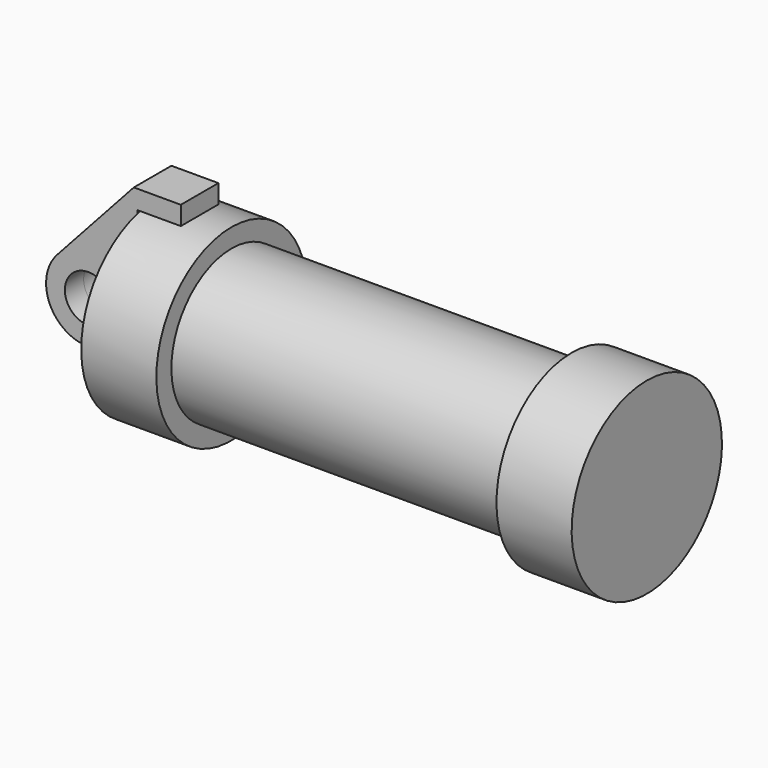
from build123d import *

# Parameters (mm, degrees)
F0_W          = 5.842
F0_H          = 12.7
F0_R          = 3.175
F2_DEPTH      = 3.175
F2_DEPTH_BACK = 3.175


with BuildPart() as f1:
    # F0 (on Front) → F1 (revolve)
    with BuildSketch(Plane.XZ):
        Polygon((5.842, 12.7), (5.842, 0), (66.294, 0), (66.294, 12.7), (56.134, 12.7), (56.134, 10.16), (10.16, 10.16), (10.16, 12.7), align=None)
        with Locations((2.921, 6.35)):
            Rectangle(F0_W, F0_H)
    revolve(axis=Axis((33.147, 0, 0), (-1, 0, 0)))


with BuildPart() as f2:
    # F0 (on Front) → F2 (new body, two sides)
    with BuildSketch(Plane.XZ) as f2_sk:
        with BuildLine():
            Line((-0.9398, 0), (0, 0))
            Line((0, 0), (0, 12.7))
            Line((0, 12.7), (5.842, 12.7))
            Line((5.842, 12.7), (5.842, 15.24))
            Line((5.842, 15.24), (-0.508, 15.24))
            Line((-0.508, 15.24), (-10.88063, 3.847543))
            ThreePointArc((-10.88063, 3.847543), (-4.591961, 5.329721), (-0.9398, 0))
        make_face()
        with BuildLine():
            ThreePointArc((-8.182663, -5.506983), (-3.195791, -4.549339), (-0.9398, 0))
            ThreePointArc((-0.9398, 0), (-4.591961, 5.329721), (-10.88063, 3.847543))
            ThreePointArc((-10.88063, 3.847543), (-12.145978, -1.583727), (-8.182663, -5.506983))
        make_face()
        with Locations((-6.6548, 0)):
            Circle(F0_R, mode=Mode.SUBTRACT)
    extrude(amount=F2_DEPTH)
    extrude(f2_sk.sketch, amount=-F2_DEPTH_BACK)


solid = Compound([f1.part, f2.part])
